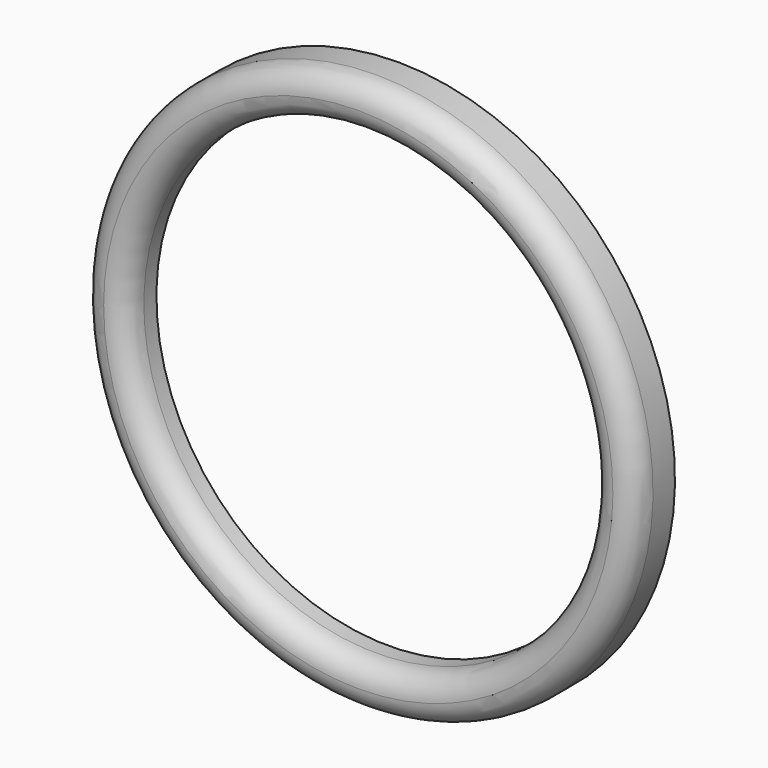
from build123d import *


with BuildPart() as f1:
    # F0 (on Right) → F1 (revolve)
    with BuildSketch(Plane.YZ):
        with BuildLine():
            Line((0, 28.5), (0, 29.5))
            Line((0, 29.5), (-2.925, 29.5))
            ThreePointArc((-2.925, 29.5), (-4.604379, 28.804379), (-5.3, 27.125))
            ThreePointArc((-5.3, 27.125), (-4.604379, 25.445621), (-2.925, 24.75))
            Line((-2.925, 24.75), (-1.25, 24.75))
            Line((-1.25, 24.75), (-1.25, 28.5))
            Line((-1.25, 28.5), (0, 28.5))
        make_face()
    revolve(axis=Axis((0, 2.962791, 0), (0, 1, 0)))


solid = f1.part
